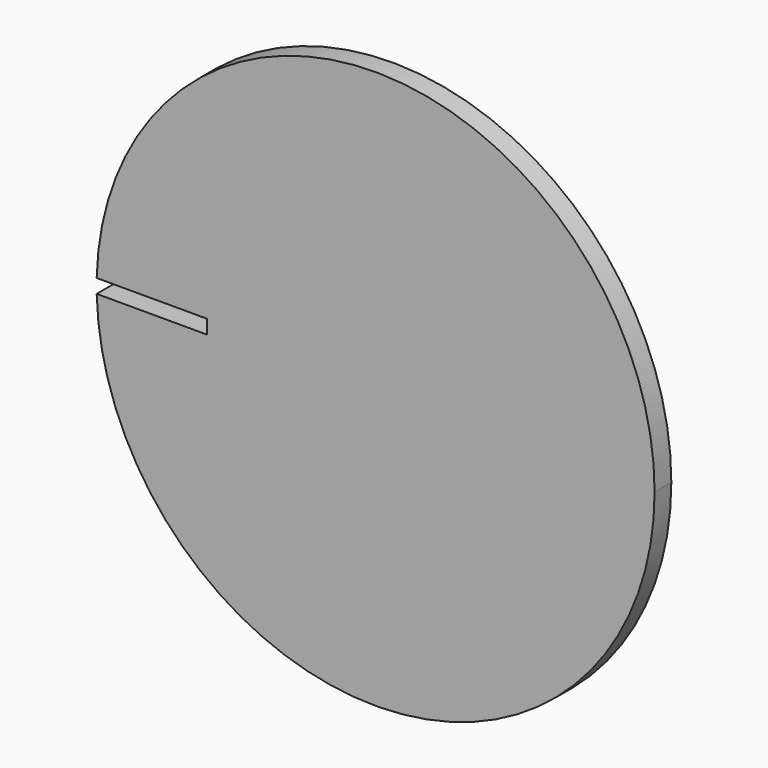
from build123d import *

# Parameters (mm, degrees)
F0_R     = 40
F1_DEPTH = 3
F2_W     = 33.162359
F2_H     = 1
F3_DEPTH = 24.9
F4_DEPTH = 25


with BuildPart() as f1:
    # F0 (on Front) → F1 (new body)
    with BuildSketch(Plane.XZ):
        Circle(F0_R)
    extrude(amount=F1_DEPTH)

    # F2 (on Front) → F3 (cut)
    with BuildSketch(Plane.XZ):
        with Locations((-40.752544, 0.5)):
            Rectangle(F2_W, F2_H)
    extrude(amount=F3_DEPTH, mode=Mode.SUBTRACT)

    # F2 (on Front) → F4 (cut)
    with BuildSketch(Plane.XZ):
        with Locations((-40.752544, 0.5)):
            Rectangle(F2_W, F2_H)
        with Locations((-40.752544, -0.5)):
            Rectangle(F2_W, F2_H)
    extrude(amount=F4_DEPTH, mode=Mode.SUBTRACT)


solid = f1.part
